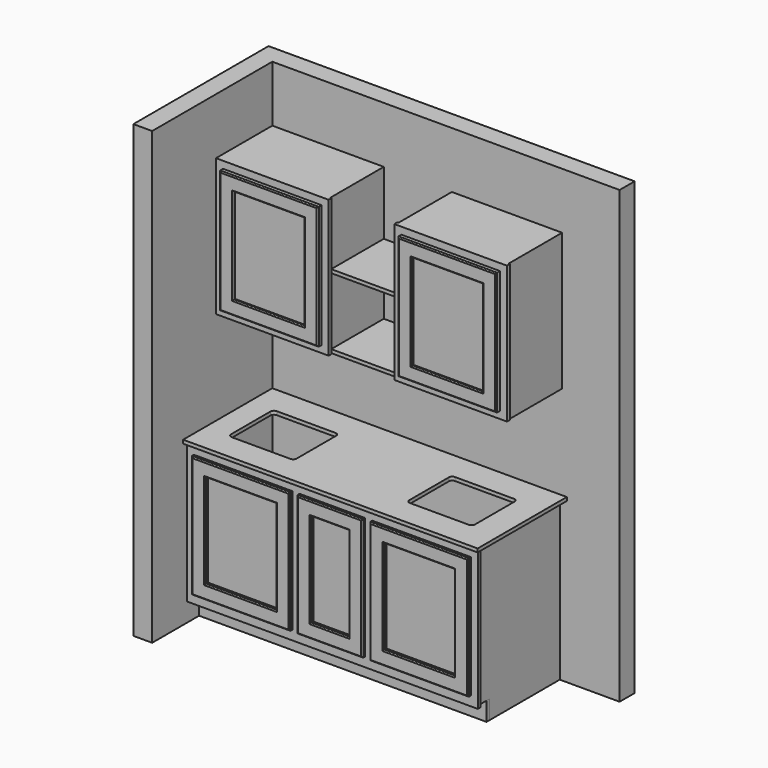
from build123d import *

# Parameters (mm, degrees)
F1_DEPTH      = 2438.4
F2_W          = 1574.8
F2_H          = 19.05
F3_DEPTH      = 863.6
F4_W          = 19.05
F4_H          = 558.8
F5_DEPTH      = 863.6
F6_W          = 1593.85
F6_H          = 19.05
F7_DEPTH      = 25.4
F7_DEPTH_BACK = 577.85
F9_DEPTH      = 25.4
F10_W         = 533.4
F10_H         = 660.4
F10_W_2       = 381
F10_H_2       = 508
F10_W_3       = 355.6
F10_W_4       = 203.2
F11_DEPTH     = 19.05
F12_SIZE      = 6.35
F13_SIZE      = 6.35
F14_W         = 260.281230233
F14_H         = 101.6
F15_DEPTH     = 1574.8
F16_W         = 19.05
F16_H         = 101.6
F17_DEPTH     = 1555.75
F19_W         = 584.2
F19_H         = 742.95
F20_DEPTH     = 381
F21_W         = 406.4
F21_H         = 19.05
F22_DEPTH     = 355.6
F23_W         = 533.4
F23_H         = 666.75
F24_DEPTH     = 25.4
F25_W         = 381
F25_H         = 514.35
F26_DEPTH     = 12.7
F27_SIZE      = 6.35
F28_W         = 361.95
F28_H         = 742.95
F29_DEPTH     = 6.35
F30_W         = 361.95
F30_H         = 743.0462871552
F31_DEPTH     = 6.35
F32_W         = 6.35
F32_H         = 361.1382842064
F33_DEPTH     = 762
F35_DEPTH     = 742.95


with BuildPart() as f1:
    # F0 (on Top) → F1 (new body)
    with BuildSketch(Plane.XY):
        Polygon((-1132.639487573, -812.8), (-1132.639487573, 0), (746.960512427, 0), (746.960512427, 101.6), (-1234.239487573, 101.6), (-1234.239487573, -812.8), align=None)
    extrude(amount=F1_DEPTH)

    # F2 (on Top) → F3 (join)
    with BuildSketch(Plane.XY):
        with Locations((-345.239487573, -568.325)):
            Rectangle(F2_W, F2_H)
    extrude(amount=F3_DEPTH)

    # F10 (on face) → F11 (join)
    with BuildSketch(Plane.XZ.offset(577.85)):
        with Locations((-827.839487573, 482.6)):
            Rectangle(F10_W, F10_H)
        with Locations((-827.839487573, 482.6)):
            Rectangle(F10_W_2, F10_H_2, mode=Mode.SUBTRACT)
        with Locations((-345.239487573, 482.6)):
            Rectangle(F10_W_3, F10_H)
        with Locations((-345.239487573, 482.6)):
            Rectangle(F10_W_4, F10_H_2, mode=Mode.SUBTRACT)
        with Locations((137.360512427, 482.6)):
            Rectangle(F10_W, F10_H)
        with Locations((137.360512427, 482.6)):
            Rectangle(F10_W_2, F10_H_2, mode=Mode.SUBTRACT)
    extrude(amount=F11_DEPTH)

    # F12
    f12_edges = [f1.edges().sort_by_distance(p)[0] for p in [
        (-827.839488, -596.9, 812.8),
        (-561.139488, -596.9, 482.6),
        (-827.839488, -596.9, 152.4),
        (-1094.539488, -596.9, 482.6),
        (-345.239488, -596.9, 812.8),
        (-523.039488, -596.9, 482.6),
        (-345.239488, -596.9, 152.4),
        (-167.439488, -596.9, 482.6),
        (137.360512, -596.9, 812.8),
        (-129.339488, -596.9, 482.6),
        (404.060512, -596.9, 482.6),
        (137.360512, -596.9, 152.4),
    ]]
    chamfer(f12_edges, length=F12_SIZE)

    # F13
    f13_edges = [f1.edges().sort_by_distance(p)[0] for p in [
        (-827.839488, -596.9, 736.6),
        (-637.339488, -596.9, 482.6),
        (-1018.339488, -596.9, 482.6),
        (-827.839488, -596.9, 228.6),
        (-446.839488, -596.9, 482.6),
        (-243.639488, -596.9, 482.6),
        (-345.239488, -596.9, 736.6),
        (-345.239488, -596.9, 228.6),
        (137.360512, -596.9, 228.6),
        (-53.139488, -596.9, 482.6),
        (327.860512, -596.9, 482.6),
        (137.360512, -596.9, 736.6),
    ]]
    chamfer(f13_edges, length=F13_SIZE)


with BuildPart() as f5:
    # F4 (on Top) → F5 (new body)
    with BuildSketch(Plane.XY):
        with Locations((413.585512427, -279.4)):
            Rectangle(F4_W, F4_H)
    extrude(amount=F5_DEPTH)


with BuildPart() as f7:
    # F6 (on face) → F7 (new body, two sides)
    with BuildSketch(Plane.XZ.offset(577.85)) as f7_sk:
        with Locations((-335.714487573, 873.125)):
            Rectangle(F6_W, F6_H)
    extrude(amount=F7_DEPTH)
    extrude(f7_sk.sketch, amount=-F7_DEPTH_BACK)

    # F8 (on face) → F9 (cut)
    with BuildSketch(Plane.XY.offset(882.65)):
        with BuildLine():
            Line((-669.089487573, -152.4), (-986.589487573, -152.4))
            ThreePointArc((-986.589487573, -152.4), (-1000.0598717546, -157.9796158184), (-1005.639487573, -171.45))
            Line((-1005.639487573, -171.45), (-1005.639487573, -438.15))
            ThreePointArc((-1005.639487573, -438.15), (-1000.0598717546, -451.6203841816), (-986.589487573, -457.2))
            Line((-986.589487573, -457.2), (-669.089487573, -457.2))
            ThreePointArc((-669.089487573, -457.2), (-655.6191033914, -451.6203841816), (-650.039487573, -438.15))
            Line((-650.039487573, -438.15), (-650.039487573, -171.45))
            ThreePointArc((-650.039487573, -171.45), (-655.6191033914, -157.9796158184), (-669.089487573, -152.4))
        make_face()
        with BuildLine():
            Line((296.110512427, -152.4), (-21.389487573, -152.4))
            ThreePointArc((-21.389487573, -152.4), (-34.8598717546, -157.9796158184), (-40.439487573, -171.45))
            Line((-40.439487573, -171.45), (-40.439487573, -438.15))
            ThreePointArc((-40.439487573, -438.15), (-34.8598717546, -451.6203841816), (-21.389487573, -457.2))
            Line((-21.389487573, -457.2), (296.110512427, -457.2))
            ThreePointArc((296.110512427, -457.2), (309.5808966086, -451.6203841816), (315.160512427, -438.15))
            Line((315.160512427, -438.15), (315.160512427, -171.45))
            ThreePointArc((315.160512427, -171.45), (309.5808966086, -157.9796158184), (296.110512427, -152.4))
        make_face()
    extrude(amount=-F9_DEPTH, mode=Mode.SUBTRACT)


with BuildPart() as f15_tool:
    # F14 (on face) → F15 (new body, through all)
    with BuildSketch(Plane.YZ.offset(442.160512427)):
        with Locations((-606.3906151165, 50.8)):
            Rectangle(F14_W, F14_H)
    extrude(amount=-F15_DEPTH)


with BuildPart() as f1_1:
    add(f1.part)

    # F15: cut by f15_tool
    add(f15_tool.part, mode=Mode.SUBTRACT)

    # F19 (on face) → F20 (join)
    with BuildSketch(Plane.XZ):
        with Locations((-840.539487573, 1762.125)):
            Rectangle(F19_W, F19_H)
        with Locations((150.060512427, 1762.125)):
            Rectangle(F19_W, F19_H)
    extrude(amount=F20_DEPTH)

    # F21 (on face) → F22 (join)
    with BuildSketch(Plane.XZ):
        with Locations((-345.239487573, 1400.175)):
            Rectangle(F21_W, F21_H)
        with Locations((-345.239487573, 1781.175)):
            Rectangle(F21_W, F21_H)
    extrude(amount=F22_DEPTH)

    # F23 (on face) → F24 (join)
    with BuildSketch(Plane.XZ.offset(381)):
        with Locations((-827.839487573, 1762.125)):
            Rectangle(F23_W, F23_H)
        with Locations((137.360512427, 1762.125)):
            Rectangle(F23_W, F23_H)
    extrude(amount=F24_DEPTH)

    # F25 (on face) → F26 (cut)
    with BuildSketch(Plane.XZ.offset(406.4)):
        with Locations((-827.839487573, 1762.125)):
            Rectangle(F25_W, F25_H)
        with Locations((137.360512427, 1762.125)):
            Rectangle(F25_W, F25_H)
    extrude(amount=-F26_DEPTH, mode=Mode.SUBTRACT)

    # F27
    f27_edges = [f1_1.edges().sort_by_distance(p)[0] for p in [
        (-827.839488, -406.4, 2019.3),
        (-637.339488, -406.4, 1762.125),
        (-827.839488, -406.4, 1504.95),
        (-1018.339488, -406.4, 1762.125),
        (137.360512, -406.4, 1504.95),
        (137.360512, -406.4, 2019.3),
        (327.860512, -406.4, 1762.125),
        (-53.139488, -406.4, 1762.125),
        (-129.339488, -406.4, 1762.125),
        (137.360512, -406.4, 1428.75),
        (404.060512, -406.4, 1762.125),
        (137.360512, -406.4, 2095.5),
        (-827.839488, -406.4, 2095.5),
        (-561.139488, -406.4, 1762.125),
        (-827.839488, -406.4, 1428.75),
        (-1094.539488, -406.4, 1762.125),
    ]]
    chamfer(f27_edges, length=F27_SIZE)

    # F28 (on face) → F29 (cut)
    with BuildSketch(Plane.YZ.offset(442.160512427)):
        with Locations((-180.975, 1762.125)):
            Rectangle(F28_W, F28_H)
    extrude(amount=-F29_DEPTH, mode=Mode.SUBTRACT)

    # F30 (on face) → F31 (cut)
    with BuildSketch(Plane.YZ.offset(-548.439487573)):
        with Locations((-180.975, 1762.0768564224)):
            Rectangle(F30_W, F30_H)
    extrude(amount=-F31_DEPTH, mode=Mode.SUBTRACT)

    # F32 (on face) → F33 (cut)
    with BuildSketch(Plane.XY.offset(2133.6)):
        with Locations((-138.864487573, -180.5691421032)):
            Rectangle(F32_W, F32_H)
    extrude(amount=-F33_DEPTH, mode=Mode.SUBTRACT)

    # F34 (on face) → F35 (join, through all)
    with BuildSketch(Plane.XY.offset(2133.6)):
        Polygon((-529.389487573, 0), (-554.789487573, 0), (-554.789487573, -381), (-523.039487573, -381), (-523.039487573, -361.95), (-529.389487573, -361.95), align=None)
        Polygon((-135.689487573, -381), (-135.689487573, 0), (-161.089487573, 0), (-161.089487573, -361.1382842064), (-167.439487573, -361.1382842064), (-167.439487573, -381), align=None)
    extrude(amount=-F35_DEPTH)


with BuildPart() as f5_1:
    add(f5.part)

    # F15: cut by f15_tool
    add(f15_tool.part, mode=Mode.SUBTRACT)


with BuildPart() as f17:
    # F16 (on face) → F17 (new body, through all)
    with BuildSketch(Plane.YZ.offset(423.110512427)):
        with Locations((-485.775, 50.8)):
            Rectangle(F16_W, F16_H)
    extrude(amount=-F17_DEPTH)


solid = Compound([f7.part, f1_1.part, f5_1.part, f17.part])
